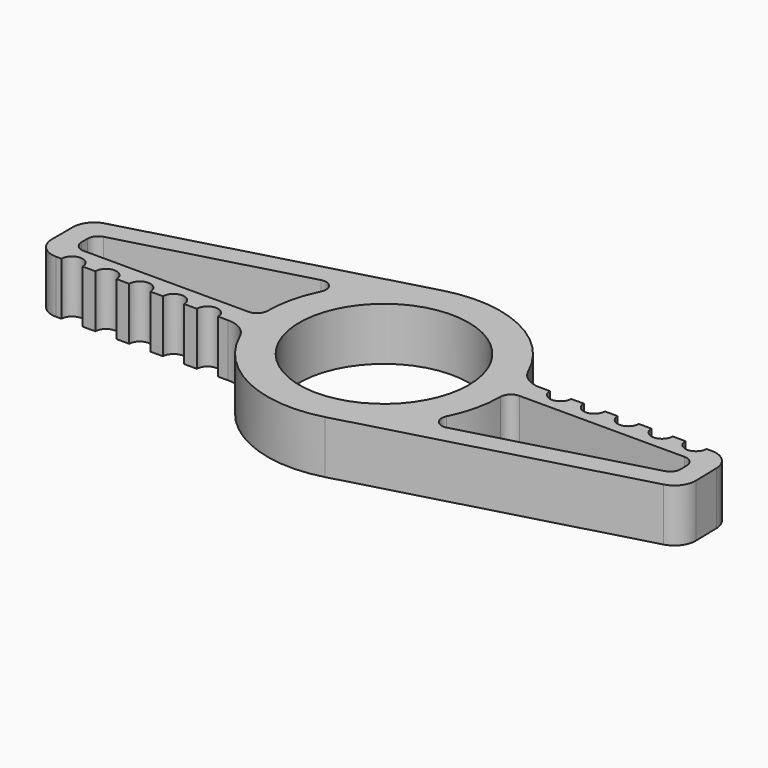
from build123d import *

# Parameters (mm, degrees)
F0_R     = 8
F1_DEPTH = 5
F2_R     = 1
F3_DEPTH = 25


with BuildPart() as f1:
    # F0 (on Top) → F1 (new body)
    with BuildSketch(Plane.XY):
        with BuildLine():
            Line((28.583005, 3), (12.328828, 3))
            ThreePointArc((12.328828, 3), (10.968, 3.402824), (10.045712, 4.481481))
            ThreePointArc((10.045712, 4.481481), (4.699675, 9.945504), (-2.91602, 10.606452))
            Line((-2.91602, 10.606452), (-29.113191, 3.404094))
            ThreePointArc((-29.113191, 3.404094), (-30.173661, 2.688008), (-30.583005, 1.475649))
            Line((-30.583005, 1.475649), (-30.583005, -1))
            ThreePointArc((-30.583005, -1), (-29.997219, -2.414214), (-28.583005, -3))
            Line((-28.583005, -3), (-12.328828, -3))
            ThreePointArc((-12.328828, -3), (-10.968, -3.402824), (-10.045712, -4.481481))
            ThreePointArc((-10.045712, -4.481481), (-4.703766, -9.94357), (2.907292, -10.608848))
            Line((2.907292, -10.608848), (29.166772, -3.412594))
            ThreePointArc((29.166772, -3.412594), (30.241702, -2.678994), (30.637681, -1.439299))
            Line((30.637681, -1.439299), (30.582512, 1.044413))
            ThreePointArc((30.582512, 1.044413), (29.981428, 2.42983), (28.583005, 3))
        make_face()
        with BuildLine():
            ThreePointArc((28.620841, -0.703362), (28.422851, -1.323209), (27.885386, -1.690009))
            Line((27.885386, -1.690009), (11.004913, -6.316002))
            ThreePointArc((11.004913, -6.316002), (9.968104, -5.986564), (9.845563, -4.905598))
            ThreePointArc((9.845563, -4.905598), (10.707502, -2.519802), (11, 0))
            ThreePointArc((11, 0), (11.292893, 0.707107), (12, 1))
            Line((12, 1), (27.604971, 1))
            ThreePointArc((27.604971, 1), (28.304182, 0.714915), (28.604724, 0.022207))
            Line((28.604724, 0.022207), (28.620841, -0.703362))
        make_face(mode=Mode.SUBTRACT)
        with BuildLine():
            ThreePointArc((-11.010106, 6.306945), (-9.973026, 5.97836), (-9.849596, 4.897495))
            ThreePointArc((-9.849596, 4.897495), (-10.708538, 2.515397), (-11, 0))
            ThreePointArc((-11, 0), (-11.292893, -0.707107), (-12, -1))
            Line((-12, -1), (-27.583005, -1))
            ThreePointArc((-27.583005, -1), (-28.290112, -0.707107), (-28.583005, 0))
            Line((-28.583005, 0), (-28.583005, 0.713473))
            ThreePointArc((-28.583005, 0.713473), (-28.378333, 1.319652), (-27.848098, 1.677696))
            Line((-27.848098, 1.677696), (-11.010106, 6.306945))
        make_face(mode=Mode.SUBTRACT)
        Circle(F0_R, mode=Mode.SUBTRACT)
    extrude(amount=F1_DEPTH)

    # F2 (on face) → F3 (cut)
    with BuildSketch(Plane.XY.offset(5)):
        with Locations((-27.083005, -3)):
            Circle(F2_R)
        with Locations((-23.883005, -3)):
            Circle(F2_R)
        with Locations((-20.683005, -3)):
            Circle(F2_R)
        with Locations((-17.483005, -3)):
            Circle(F2_R)
        with Locations((-14.283005, -3)):
            Circle(F2_R)
        with Locations((27.083005, 3)):
            Circle(F2_R)
        with Locations((23.883005, 3)):
            Circle(F2_R)
        with Locations((20.683005, 3)):
            Circle(F2_R)
        with Locations((17.483005, 3)):
            Circle(F2_R)
        with Locations((14.283005, 3)):
            Circle(F2_R)
    extrude(amount=-F3_DEPTH, mode=Mode.SUBTRACT)


solid = f1.part
